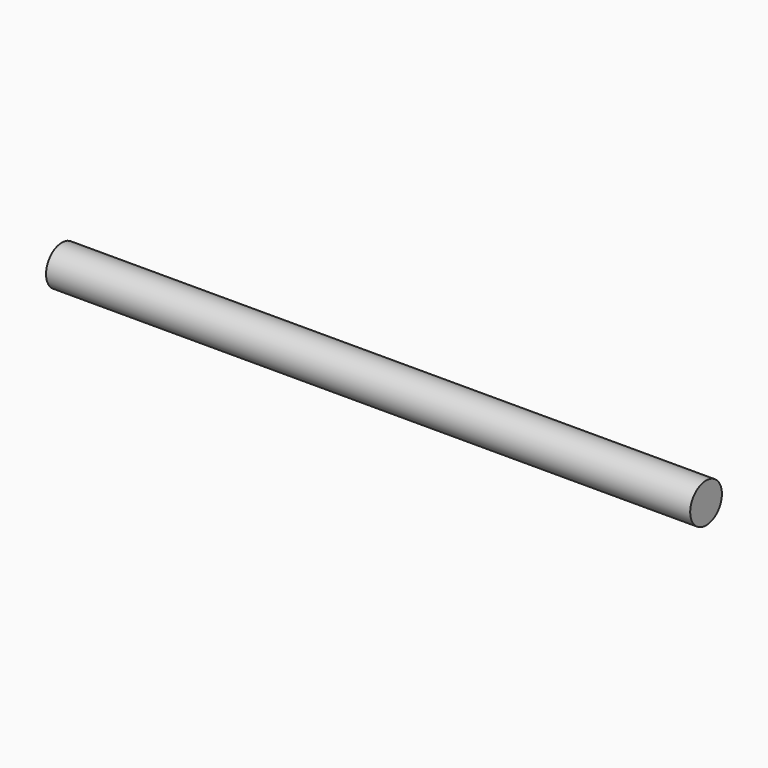
from build123d import *

# Parameters (mm, degrees)
BINDER_W = 0.4
BINDER_H = 13


with BuildPart() as part:
    # Binder → Revolution (revolve)
    with BuildSketch(Plane(origin=(-3.35, 0.2, 0), x_dir=(0, 1, 0), z_dir=(0, 0, 1))):
        Rectangle(BINDER_W, BINDER_H)
    revolve(axis=Axis((0, 0, 0), (1, 0, 0)))


solid = part.part
